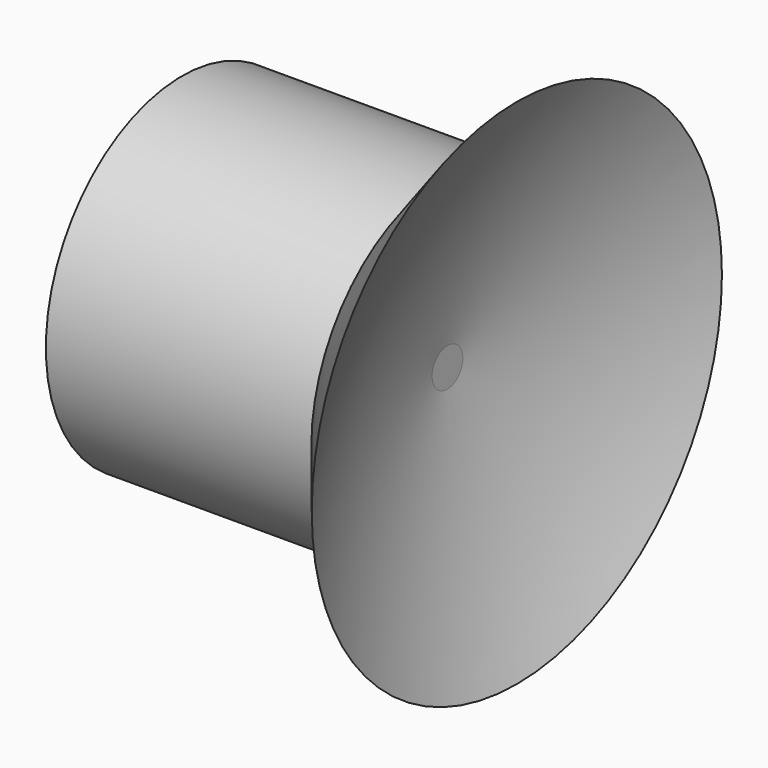
from build123d import *

# Parameters (mm, degrees)
F0_R     = 10
F1_DEPTH = 10
F2_R     = 10
F2_R_2   = 4
F3_DEPTH = 5
F4_R     = 10
F5_DEPTH = 0.6


with BuildPart() as f1:
    # F0 (on Right) → F1 (new body)
    with BuildSketch(Plane.YZ):
        Circle(F0_R)
        Polygon((0, 7.2168783649), (6.25, 3.6084391824), (6.25, -3.6084391824), (0, -7.2168783649), (-6.25, -3.6084391824), (-6.25, 3.6084391824), align=None, mode=Mode.SUBTRACT)
    extrude(amount=F1_DEPTH)

    # F2 (on face) → F3 (join)
    with BuildSketch(Plane.YZ.offset(10)):
        Circle(F2_R)
        Polygon((-6.25, 3.6084391824), (0, 7.2168783649), (6.25, 3.6084391824), (6.25, -3.6084391824), (0, -7.2168783649), (-6.25, -3.6084391824), align=None, mode=Mode.SUBTRACT)
        Polygon((6.25, 3.6084391824), (0, 7.2168783649), (-6.25, 3.6084391824), (-6.25, -3.6084391824), (0, -7.2168783649), (6.25, -3.6084391824), align=None)
        Circle(F2_R_2, mode=Mode.SUBTRACT)
    extrude(amount=F3_DEPTH)

    # F4 (on face) → F5 (join)
    with BuildSketch(Plane.YZ.offset(15)):
        Circle(F4_R)
    extrude(amount=F5_DEPTH)

    # F6 (on Front) → F7 (revolve)
    with BuildSketch(Plane.XZ):
        with BuildLine():
            ThreePointArc((19.6760818362, -15.0644853711), (17.075219414, -8.2618948834), (15.6, -1.1300332496))
            Line((15.6, -1.1300332496), (15.6, -10))
            Line((15.6, -10), (19.6760818362, -15.0644853711))
        make_face()
    revolve(axis=Axis((11.1028458923, 0, 0), (1, 0, 0)))


solid = f1.part
